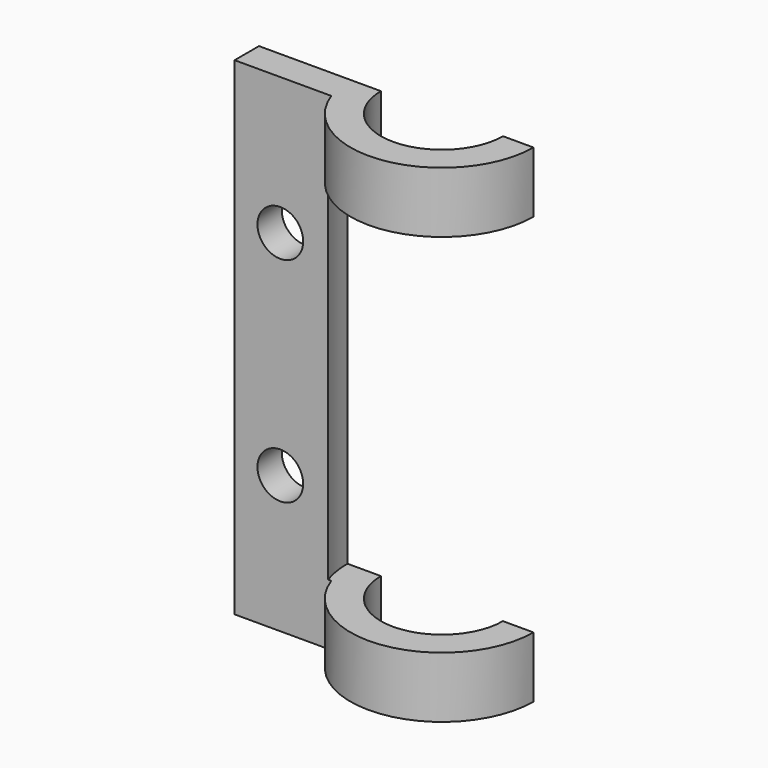
from build123d import *

# Parameters (mm, degrees)
F1_DEPTH = 50.8
F2_R     = 19.685
F3_DEPTH = 38.1
F4_R     = 4.7625
F5_DEPTH = 12.7


with BuildPart() as f1:
    # F0 (on Top) → F1 (new body, symmetric)
    with BuildSketch(Plane.XY):
        with BuildLine():
            Line((-12.7, 0), (-38.1, 0))
            Line((-38.1, 0), (-38.1, -6.35))
            Line((-38.1, -6.35), (-17.960512, -6.35))
            ThreePointArc((-17.960512, -6.35), (3.221393, -18.775653), (19.05, 0))
            Line((19.05, 0), (12.7, 0))
            ThreePointArc((12.7, 0), (0, -12.7), (-12.7, 0))
        make_face()
    extrude(amount=F1_DEPTH, both=True)

    # F2 (on Top) → F3 (cut, symmetric)
    with BuildSketch(Plane.XY):
        Circle(F2_R)
    extrude(amount=F3_DEPTH, both=True, mode=Mode.SUBTRACT)

    # F4 (on face) → F5 (cut)
    with BuildSketch(Plane.XZ.offset(6.35)):
        with Locations((-28.575, 22.225)):
            Circle(F4_R)
        with Locations((-28.575, -22.225)):
            Circle(F4_R)
    extrude(amount=-F5_DEPTH, mode=Mode.SUBTRACT)


solid = f1.part
